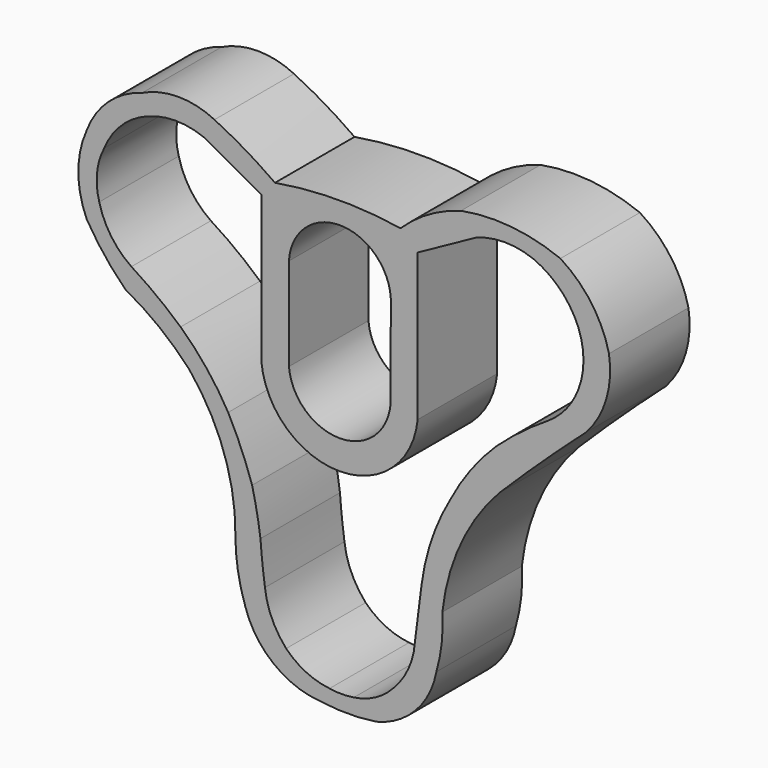
from build123d import *

# Parameters (mm, degrees)
F1_DEPTH = 12.7


with BuildPart() as f1:
    # F0 (on Front) → F1 (new body)
    with BuildSketch(Plane.XZ):
        with BuildLine():
            ThreePointArc((7.69091, 20.811336), (-0.333119, 21.424423), (-8.349281, 20.715859))
            ThreePointArc((-8.349281, 20.715859), (-12.116558, 23.175313), (-16.082944, 25.298769))
            ThreePointArc((-16.082944, 25.298769), (-20.713595, 26.370891), (-25.344245, 25.298769))
            ThreePointArc((-25.344245, 25.298769), (-29.651755, 22.890702), (-32.409567, 18.798282))
            ThreePointArc((-32.409567, 18.798282), (-33.486607, 13.789737), (-32.409567, 8.781191))
            ThreePointArc((-32.409567, 8.781191), (-30.135593, 5.466217), (-27.444746, 2.479688))
            ThreePointArc((-27.444746, 2.479688), (-23.124292, -0.332779), (-19.329173, -3.821816))
            ThreePointArc((-19.329173, -3.821816), (-14.885441, -11.701071), (-13.409578, -20.625826))
            ThreePointArc((-13.409578, -20.625826), (-13.094559, -24.449511), (-12.151859, -28.168533))
            ThreePointArc((-12.151859, -28.168533), (-8.593861, -33.390859), (-2.716118, -35.711244))
            ThreePointArc((-2.716118, -35.711244), (0.935054, -35.984886), (4.586227, -35.711244))
            ThreePointArc((4.586227, -35.711244), (9.625101, -32.785511), (12.273822, -27.595671))
            ThreePointArc((12.273822, -27.595671), (12.954571, -24.143498), (13.037641, -20.625826))
            ThreePointArc((13.037641, -20.625826), (15.387537, -12.16018), (20.293918, -4.872066))
            ThreePointArc((20.293918, -4.872066), (25.805674, 0.457541), (31.464763, 5.630441))
            ThreePointArc((31.464763, 5.630441), (33.995825, 10.176578), (34.329087, 15.369128))
            ThreePointArc((34.329087, 15.369128), (32.086254, 20.327762), (28.123058, 24.057565))
            ThreePointArc((28.123058, 24.057565), (21.862125, 25.581632), (15.424574, 25.298769))
            ThreePointArc((15.424574, 25.298769), (11.27977, 23.534111), (7.69091, 20.811336))
        make_face()
        with BuildLine():
            Line((9.878923, 0), (9.878923, 18.798282))
            Line((9.878923, 18.798282), (17.332818, 22.89835))
            ThreePointArc((17.332818, 22.89835), (20.992374, 23.581129), (24.65193, 22.89835))
            ThreePointArc((24.65193, 22.89835), (28.132867, 20.538614), (30.431706, 17.017163))
            ThreePointArc((30.431706, 17.017163), (31.071768, 13.560915), (30.431706, 10.104667))
            ThreePointArc((30.431706, 10.104667), (28.883301, 7.399786), (26.568841, 5.312392))
            ThreePointArc((26.568841, 5.312392), (23.106214, 2.925578), (19.87949, 0.228372))
            ThreePointArc((19.87949, 0.228372), (16.659666, -3.459109), (14.066798, -7.611436))
            ThreePointArc((14.066798, -7.611436), (11.689949, -12.826881), (10.378914, -18.406438))
            ThreePointArc((10.378914, -18.406438), (9.877051, -22.375038), (9.377567, -26.343938))
            ThreePointArc((9.377567, -26.343938), (8.425443, -28.967875), (6.77553, -31.219402))
            ThreePointArc((6.77553, -31.219402), (4.485726, -33.008298), (1.723359, -33.909786))
            ThreePointArc((1.723359, -33.909786), (0.172795, -34.034228), (-1.37777, -33.909786))
            ThreePointArc((-1.37777, -33.909786), (-4.384983, -33.048288), (-6.922835, -31.219402))
            ThreePointArc((-6.922835, -31.219402), (-8.746023, -28.443394), (-9.633755, -25.243055))
            ThreePointArc((-9.633755, -25.243055), (-9.964347, -22.588134), (-10.2088, -19.923901))
            ThreePointArc((-10.2088, -19.923901), (-10.662997, -17.074727), (-11.276738, -14.255612))
            ThreePointArc((-11.276738, -14.255612), (-12.653327, -10.596268), (-14.336792, -7.067564))
            ThreePointArc((-14.336792, -7.067564), (-17.077562, -3.009918), (-20.415826, 0.572303))
            ThreePointArc((-20.415826, 0.572303), (-23.455709, 3.078004), (-26.700232, 5.312392))
            ThreePointArc((-26.700232, 5.312392), (-29.302964, 7.902363), (-30.807687, 11.251688))
            ThreePointArc((-30.807687, 11.251688), (-31.094118, 14.44509), (-30.171031, 17.515557))
            ThreePointArc((-30.171031, 17.515557), (-27.970944, 20.785615), (-24.643781, 22.89835))
            ThreePointArc((-24.643781, 22.89835), (-21.067174, 23.574655), (-17.490568, 22.89835))
            Line((-17.490568, 22.89835), (-10.084878, 18.798282))
            Line((-10.084878, 18.798282), (-10.084878, 0))
            ThreePointArc((-10.084878, 0), (-0.102977, -9.055328), (9.878923, 0))
        make_face(mode=Mode.SUBTRACT)
        with BuildLine():
            Line((-6.570105, 0.616277), (-6.570105, 12.497848))
            ThreePointArc((-6.570105, 12.497848), (-0.05942, 18.639401), (6.451266, 12.497848))
            Line((6.451266, 12.497848), (6.416727, 0.616277))
            ThreePointArc((6.416727, 0.616277), (-0.076689, -5.339812), (-6.570105, 0.616277))
        make_face(mode=Mode.SUBTRACT)
    extrude(amount=F1_DEPTH)


solid = f1.part
